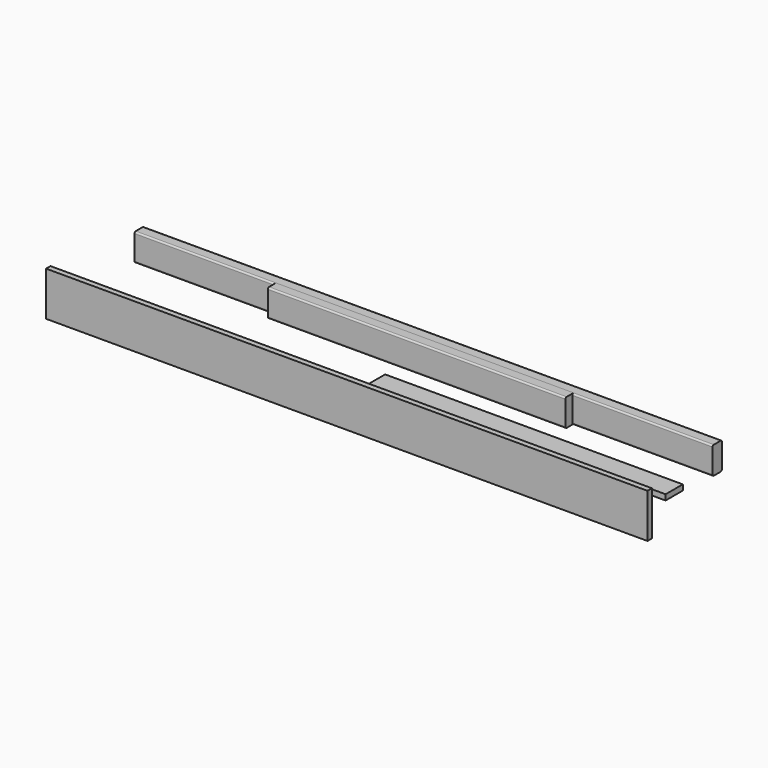
from build123d import *

# Parameters (mm, degrees)
F1_DEPTH = 942
F2_W     = 18
F2_H     = 144
F3_DEPTH = 980
F5_DEPTH = 485
F6_W     = 70
F6_H     = 18
F7_DEPTH = 970


with BuildPart() as f1:
    # F0 (on Right) → F1 (new body, symmetric)
    with BuildSketch(Plane.YZ):
        with BuildLine():
            Line((39, 44.5), (11, 44.5))
            ThreePointArc((11, 44.5), (7.4644660941, 43.0355339059), (6, 39.5))
            Line((6, 39.5), (6, -39.5))
            ThreePointArc((6, -39.5), (7.4644660941, -43.0355339059), (11, -44.5))
            Line((11, -44.5), (39, -44.5))
            ThreePointArc((39, -44.5), (42.5355339059, -43.0355339059), (44, -39.5))
            Line((44, -39.5), (44, 39.5))
            ThreePointArc((44, 39.5), (42.5355339059, 43.0355339059), (39, 44.5))
        make_face()
    extrude(amount=F1_DEPTH, both=True)


with BuildPart() as f3:
    # F2 (on Right) → F3 (new body, symmetric)
    with BuildSketch(Plane.YZ):
        with Locations((-297.740265727, -18.3279789912)):
            Rectangle(F2_W, F2_H)
    extrude(amount=F3_DEPTH, both=True)


with BuildPart() as f5:
    # F4 (on Right) → F5 (new body, symmetric)
    with BuildSketch(Plane.YZ):
        with BuildLine():
            Line((11, 44.5), (-17, 44.5))
            ThreePointArc((-17, 44.5), (-20.5355339059, 43.0355339059), (-22, 39.5))
            Line((-22, 39.5), (-22, -39.5))
            ThreePointArc((-22, -39.5), (-20.5355339059, -43.0355339059), (-17, -44.5))
            Line((-17, -44.5), (11, -44.5))
            ThreePointArc((11, -44.5), (14.5355339059, -43.0355339059), (16, -39.5))
            Line((16, -39.5), (16, 39.5))
            ThreePointArc((16, 39.5), (14.5355339059, 43.0355339059), (11, 44.5))
        make_face()
    extrude(amount=F5_DEPTH, both=True)


with BuildPart() as f7:
    # F6 (on Right) → F7 (new body)
    with BuildSketch(Plane.YZ):
        with Locations((-185.544824217, -3.5608911421)):
            Rectangle(F6_W, F6_H)
    extrude(amount=F7_DEPTH)


solid = Compound([f1.part, f3.part, f5.part, f7.part])
